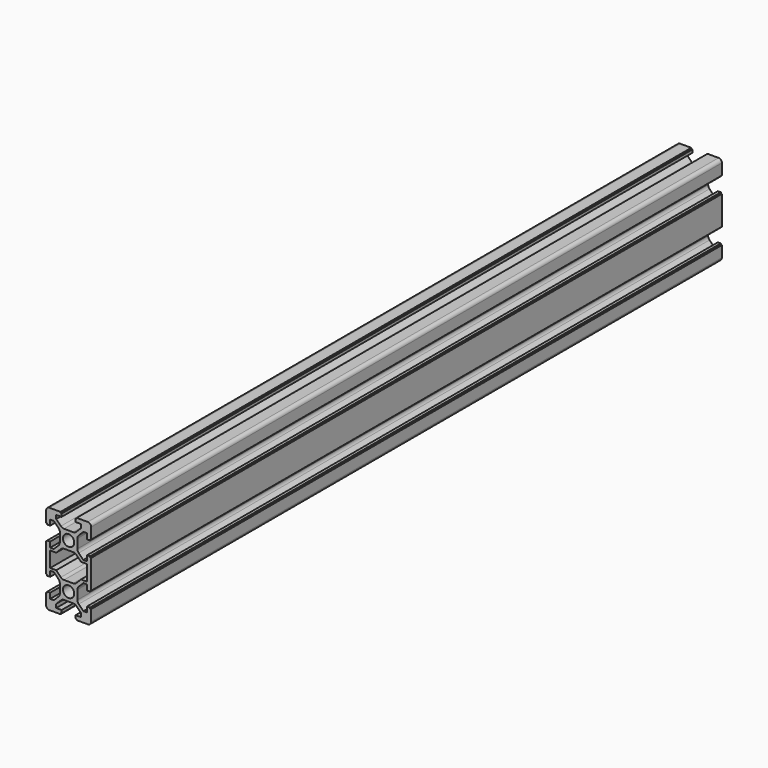
from build123d import *

# Parameters (mm, degrees)
F0_R     = 2.5
F1_DEPTH = 350


with BuildPart() as f1:
    # F0 (on Front) → F1 (new body)
    with BuildSketch(Plane.XZ):
        with BuildLine():
            Line((-91.984542, 44.065978), (-88.984542, 44.065978))
            ThreePointArc((-88.984542, 44.065978), (-87.923881, 44.505318), (-87.484542, 45.565978))
            Line((-87.484542, 45.565978), (-87.484542, 48.565978))
            Line((-87.484542, 48.565978), (-87.484542, 50.465978))
            Line((-87.484542, 50.465978), (-87.784542, 50.465978))
            ThreePointArc((-87.784542, 50.465978), (-87.925963, 50.524557), (-87.984542, 50.665978))
            Line((-87.984542, 50.665978), (-87.984542, 50.965978))
            Line((-87.984542, 50.965978), (-89.284542, 50.965978))
            Line((-89.284542, 50.965978), (-89.284542, 48.565978))
            Line((-89.284542, 48.565978), (-90.923881, 48.565978))
            Line((-90.923881, 48.565978), (-92.998755, 50.640852))
            ThreePointArc((-92.998755, 50.640852), (-93.432301, 51.289698), (-93.584542, 52.055065))
            Line((-93.584542, 52.055065), (-93.584542, 56.076891))
            ThreePointArc((-93.584542, 56.076891), (-93.432301, 56.842257), (-92.998755, 57.491104))
            Line((-92.998755, 57.491104), (-90.923881, 59.565978))
            Line((-90.923881, 59.565978), (-89.284542, 59.565978))
            Line((-89.284542, 59.565978), (-89.284542, 57.165978))
            Line((-89.284542, 57.165978), (-87.984542, 57.165978))
            Line((-87.984542, 57.165978), (-87.984542, 57.465978))
            ThreePointArc((-87.984542, 57.465978), (-87.925963, 57.607399), (-87.784542, 57.665978))
            Line((-87.784542, 57.665978), (-87.484542, 57.665978))
            Line((-87.484542, 57.665978), (-87.484542, 59.565978))
            Line((-87.484542, 59.565978), (-87.484542, 62.565978))
            Line((-87.484542, 62.565978), (-87.484542, 64.065978))
            Line((-87.484542, 64.065978), (-87.484542, 65.565978))
            Line((-87.484542, 65.565978), (-87.484542, 68.565978))
            Line((-87.484542, 68.565978), (-87.484542, 70.465978))
            Line((-87.484542, 70.465978), (-87.784542, 70.465978))
            ThreePointArc((-87.784542, 70.465978), (-87.925963, 70.524557), (-87.984542, 70.665978))
            Line((-87.984542, 70.665978), (-87.984542, 70.965978))
            Line((-87.984542, 70.965978), (-89.284542, 70.965978))
            Line((-89.284542, 70.965978), (-89.284542, 68.565978))
            Line((-89.284542, 68.565978), (-90.923881, 68.565978))
            Line((-90.923881, 68.565978), (-92.998755, 70.640852))
            ThreePointArc((-92.998755, 70.640852), (-93.432301, 71.289698), (-93.584542, 72.055065))
            Line((-93.584542, 72.055065), (-93.584542, 76.076891))
            ThreePointArc((-93.584542, 76.076891), (-93.432301, 76.842257), (-92.998755, 77.491104))
            Line((-92.998755, 77.491104), (-90.923881, 79.565978))
            Line((-90.923881, 79.565978), (-89.284542, 79.565978))
            Line((-89.284542, 79.565978), (-89.284542, 77.165978))
            Line((-89.284542, 77.165978), (-87.984542, 77.165978))
            Line((-87.984542, 77.165978), (-87.984542, 77.465978))
            ThreePointArc((-87.984542, 77.465978), (-87.925963, 77.607399), (-87.784542, 77.665978))
            Line((-87.784542, 77.665978), (-87.484542, 77.665978))
            Line((-87.484542, 77.665978), (-87.484542, 79.565978))
            Line((-87.484542, 79.565978), (-87.484542, 82.565978))
            ThreePointArc((-87.484542, 82.565978), (-87.923881, 83.626638), (-88.984542, 84.065978))
            Line((-88.984542, 84.065978), (-91.984542, 84.065978))
            Line((-91.984542, 84.065978), (-93.384542, 84.065978))
            Line((-93.384542, 84.065978), (-93.884542, 84.065978))
            Line((-93.884542, 84.065978), (-93.884542, 83.765978))
            ThreePointArc((-93.884542, 83.765978), (-93.94312, 83.624557), (-94.084542, 83.565978))
            Line((-94.084542, 83.565978), (-94.384542, 83.565978))
            Line((-94.384542, 83.565978), (-94.384542, 82.265978))
            Line((-94.384542, 82.265978), (-91.984542, 82.265978))
            Line((-91.984542, 82.265978), (-91.984542, 80.626638))
            Line((-91.984542, 80.626638), (-94.059415, 78.551764))
            ThreePointArc((-94.059415, 78.551764), (-94.708262, 78.118219), (-95.473629, 77.965978))
            Line((-95.473629, 77.965978), (-99.495454, 77.965978))
            ThreePointArc((-99.495454, 77.965978), (-100.260821, 78.118219), (-100.909668, 78.551764))
            Line((-100.909668, 78.551764), (-102.984542, 80.626638))
            Line((-102.984542, 80.626638), (-102.984542, 82.265978))
            Line((-102.984542, 82.265978), (-100.584542, 82.265978))
            Line((-100.584542, 82.265978), (-100.584542, 83.565978))
            Line((-100.584542, 83.565978), (-100.884542, 83.565978))
            ThreePointArc((-100.884542, 83.565978), (-101.025963, 83.624557), (-101.084542, 83.765978))
            Line((-101.084542, 83.765978), (-101.084542, 84.065978))
            Line((-101.084542, 84.065978), (-101.584542, 84.065978))
            Line((-101.584542, 84.065978), (-102.984542, 84.065978))
            Line((-102.984542, 84.065978), (-105.984542, 84.065978))
            ThreePointArc((-105.984542, 84.065978), (-107.045202, 83.626638), (-107.484542, 82.565978))
            Line((-107.484542, 82.565978), (-107.484542, 79.565978))
            Line((-107.484542, 79.565978), (-107.484542, 77.665978))
            Line((-107.484542, 77.665978), (-107.184542, 77.665978))
            ThreePointArc((-107.184542, 77.665978), (-107.04312, 77.607399), (-106.984542, 77.465978))
            Line((-106.984542, 77.465978), (-106.984542, 77.165978))
            Line((-106.984542, 77.165978), (-105.684542, 77.165978))
            Line((-105.684542, 77.165978), (-105.684542, 79.565978))
            Line((-105.684542, 79.565978), (-104.045202, 79.565978))
            Line((-104.045202, 79.565978), (-101.970328, 77.491104))
            ThreePointArc((-101.970328, 77.491104), (-101.536782, 76.842257), (-101.384542, 76.076891))
            Line((-101.384542, 76.076891), (-101.384542, 72.055065))
            ThreePointArc((-101.384542, 72.055065), (-101.536782, 71.289698), (-101.970328, 70.640852))
            Line((-101.970328, 70.640852), (-104.045202, 68.565978))
            Line((-104.045202, 68.565978), (-105.684542, 68.565978))
            Line((-105.684542, 68.565978), (-105.684542, 70.965978))
            Line((-105.684542, 70.965978), (-106.984542, 70.965978))
            Line((-106.984542, 70.965978), (-106.984542, 70.665978))
            ThreePointArc((-106.984542, 70.665978), (-107.04312, 70.524557), (-107.184542, 70.465978))
            Line((-107.184542, 70.465978), (-107.484542, 70.465978))
            Line((-107.484542, 70.465978), (-107.484542, 68.565978))
            Line((-107.484542, 68.565978), (-107.484542, 65.565978))
            Line((-107.484542, 65.565978), (-107.484542, 64.065978))
            Line((-107.484542, 64.065978), (-107.484542, 62.565978))
            Line((-107.484542, 62.565978), (-107.484542, 59.565978))
            Line((-107.484542, 59.565978), (-107.484542, 57.665978))
            Line((-107.484542, 57.665978), (-107.184542, 57.665978))
            ThreePointArc((-107.184542, 57.665978), (-107.04312, 57.607399), (-106.984542, 57.465978))
            Line((-106.984542, 57.465978), (-106.984542, 57.165978))
            Line((-106.984542, 57.165978), (-105.684542, 57.165978))
            Line((-105.684542, 57.165978), (-105.684542, 59.565978))
            Line((-105.684542, 59.565978), (-104.045202, 59.565978))
            Line((-104.045202, 59.565978), (-101.970328, 57.491104))
            ThreePointArc((-101.970328, 57.491104), (-101.536782, 56.842257), (-101.384542, 56.076891))
            Line((-101.384542, 56.076891), (-101.384542, 52.055065))
            ThreePointArc((-101.384542, 52.055065), (-101.536782, 51.289698), (-101.970328, 50.640852))
            Line((-101.970328, 50.640852), (-104.045202, 48.565978))
            Line((-104.045202, 48.565978), (-105.684542, 48.565978))
            Line((-105.684542, 48.565978), (-105.684542, 50.965978))
            Line((-105.684542, 50.965978), (-106.984542, 50.965978))
            Line((-106.984542, 50.965978), (-106.984542, 50.665978))
            ThreePointArc((-106.984542, 50.665978), (-107.04312, 50.524557), (-107.184542, 50.465978))
            Line((-107.184542, 50.465978), (-107.484542, 50.465978))
            Line((-107.484542, 50.465978), (-107.484542, 48.565978))
            Line((-107.484542, 48.565978), (-107.484542, 45.565978))
            ThreePointArc((-107.484542, 45.565978), (-107.045202, 44.505318), (-105.984542, 44.065978))
            Line((-105.984542, 44.065978), (-102.984542, 44.065978))
            Line((-102.984542, 44.065978), (-101.584542, 44.065978))
            Line((-101.584542, 44.065978), (-101.084542, 44.065978))
            Line((-101.084542, 44.065978), (-101.084542, 44.365978))
            ThreePointArc((-101.084542, 44.365978), (-101.025963, 44.507399), (-100.884542, 44.565978))
            Line((-100.884542, 44.565978), (-100.584542, 44.565978))
            Line((-100.584542, 44.565978), (-100.584542, 45.865978))
            Line((-100.584542, 45.865978), (-102.984542, 45.865978))
            Line((-102.984542, 45.865978), (-102.984542, 47.505318))
            Line((-102.984542, 47.505318), (-100.909668, 49.580191))
            ThreePointArc((-100.909668, 49.580191), (-100.260821, 50.013737), (-99.495454, 50.165978))
            Line((-99.495454, 50.165978), (-95.473629, 50.165978))
            ThreePointArc((-95.473629, 50.165978), (-94.708262, 50.013737), (-94.059415, 49.580191))
            Line((-94.059415, 49.580191), (-91.984542, 47.505318))
            Line((-91.984542, 47.505318), (-91.984542, 45.865978))
            Line((-91.984542, 45.865978), (-94.384542, 45.865978))
            Line((-94.384542, 45.865978), (-94.384542, 44.565978))
            Line((-94.384542, 44.565978), (-94.084542, 44.565978))
            ThreePointArc((-94.084542, 44.565978), (-93.94312, 44.507399), (-93.884542, 44.365978))
            Line((-93.884542, 44.365978), (-93.884542, 44.065978))
            Line((-93.884542, 44.065978), (-93.384542, 44.065978))
            Line((-93.384542, 44.065978), (-91.984542, 44.065978))
        make_face()
        with Locations((-97.484542, 54.065978)):
            Circle(F0_R, mode=Mode.SUBTRACT)
        with BuildLine():
            ThreePointArc((-94.059415, 58.551764), (-94.708262, 58.118219), (-95.473629, 57.965978))
            Line((-95.473629, 57.965978), (-99.495454, 57.965978))
            ThreePointArc((-99.495454, 57.965978), (-100.260821, 58.118219), (-100.909668, 58.551764))
            Line((-100.909668, 58.551764), (-102.984542, 60.626638))
            Line((-102.984542, 60.626638), (-105.684542, 60.626638))
            Line((-105.684542, 60.626638), (-105.684542, 64.065978))
            Line((-105.684542, 64.065978), (-105.684542, 67.505318))
            Line((-105.684542, 67.505318), (-102.984542, 67.505318))
            Line((-102.984542, 67.505318), (-100.909668, 69.580191))
            ThreePointArc((-100.909668, 69.580191), (-100.260821, 70.013737), (-99.495454, 70.165978))
            Line((-99.495454, 70.165978), (-95.473629, 70.165978))
            ThreePointArc((-95.473629, 70.165978), (-94.708262, 70.013737), (-94.059415, 69.580191))
            Line((-94.059415, 69.580191), (-91.984542, 67.505318))
            Line((-91.984542, 67.505318), (-89.284542, 67.505318))
            Line((-89.284542, 67.505318), (-89.284542, 64.065978))
            Line((-89.284542, 64.065978), (-89.284542, 60.626638))
            Line((-89.284542, 60.626638), (-91.984542, 60.626638))
            Line((-91.984542, 60.626638), (-94.059415, 58.551764))
        make_face(mode=Mode.SUBTRACT)
        with Locations((-97.484542, 74.065978)):
            Circle(F0_R, mode=Mode.SUBTRACT)
    extrude(amount=F1_DEPTH)


solid = f1.part
